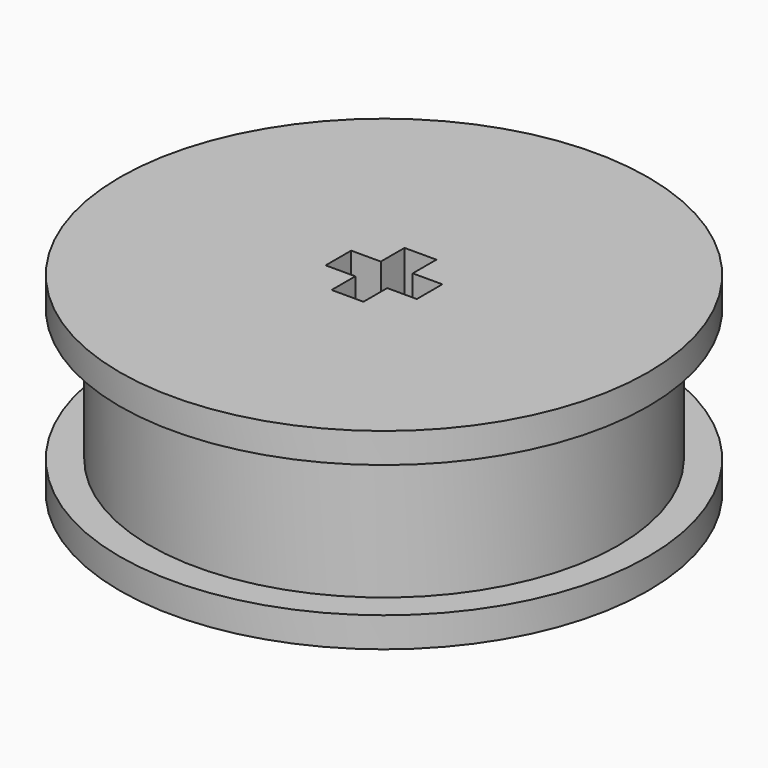
from build123d import *

# Parameters (mm, degrees)
F0_R     = 13.97999998
F1_DEPTH = 1.5875
F2_R     = 12.39249998
F3_DEPTH = 7
F4_R     = 13.97999998
F5_DEPTH = 1.5875
F6_R     = 3.96875
F7_DEPTH = 1.5875
F8_W     = 1.56845
F8_H     = 1.6891
F8_W_2   = 1.6891
F8_H_2   = 1.56845
F9_DEPTH = 11.7625


with BuildPart() as f1:
    # F0 (on Top) → F1 (new body)
    with BuildSketch(Plane.XY):
        Circle(F0_R)
    extrude(amount=F1_DEPTH)

    # F2 (on face) → F3 (join)
    with BuildSketch(Plane.XY.offset(1.5875)):
        Circle(F2_R)
    extrude(amount=F3_DEPTH)

    # F4 (on face) → F5 (join)
    with BuildSketch(Plane.XY.offset(8.5875)):
        Circle(F4_R)
    extrude(amount=F5_DEPTH)

    # F6 (on face) → F7 (join)
    with BuildSketch(Plane(origin=(0, 0, 0), x_dir=(1, 0, 0), z_dir=(0, 0, -1))):
        Circle(F6_R)
    extrude(amount=F7_DEPTH)

    # F8 (on face) → F9 (cut, through all)
    with BuildSketch(Plane.XY.offset(10.175)):
        with Locations((1.628775, 0)):
            Rectangle(F8_W, F8_H)
        with Locations((0, -1.628775)):
            Rectangle(F8_W_2, F8_H_2)
        Rectangle(F8_W_2, F8_H)
        with Locations((-1.628775, 0)):
            Rectangle(F8_W, F8_H)
        with Locations((0, 1.628775)):
            Rectangle(F8_W_2, F8_H_2)
    extrude(amount=-F9_DEPTH, mode=Mode.SUBTRACT)


solid = f1.part
